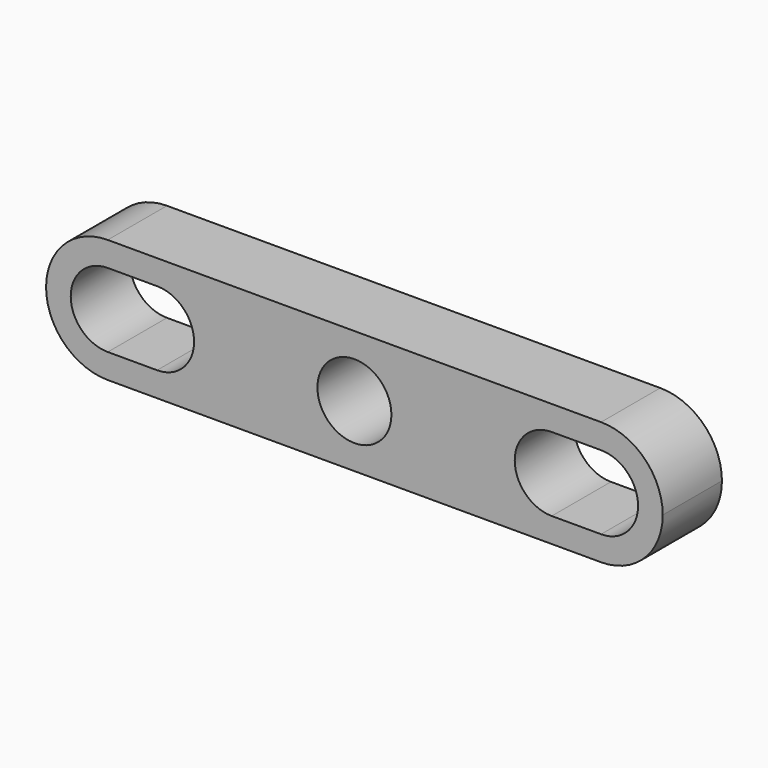
from build123d import *

# Parameters (mm, degrees)
F0_R     = 1.5
F1_DEPTH = 3


with BuildPart() as f1:
    # F0 (on Front) → F1 (new body)
    with BuildSketch(Plane.XZ):
        with BuildLine():
            ThreePointArc((12.5, 0), (11.767767, 1.767767), (10, 2.5))
            Line((10, 2.5), (-10, 2.5))
            ThreePointArc((-10, 2.5), (-11.767767, 1.767767), (-12.5, 0))
            ThreePointArc((-12.5, 0), (-11.767767, -1.767767), (-10, -2.5))
            Line((-10, -2.5), (10, -2.5))
            ThreePointArc((10, -2.5), (11.767767, -1.767767), (12.5, 0))
        make_face()
        with BuildLine():
            ThreePointArc((-8, 1.5), (-6.5, 0), (-8, -1.5))
            Line((-8, -1.5), (-10, -1.5))
            ThreePointArc((-10, -1.5), (-11.5, 0), (-10, 1.5))
            Line((-10, 1.5), (-8, 1.5))
        make_face(mode=Mode.SUBTRACT)
        Circle(F0_R, mode=Mode.SUBTRACT)
        with BuildLine():
            ThreePointArc((10, 1.5), (11.5, 0), (10, -1.5))
            Line((10, -1.5), (8, -1.5))
            ThreePointArc((8, -1.5), (6.5, 0), (8, 1.5))
            Line((8, 1.5), (10, 1.5))
        make_face(mode=Mode.SUBTRACT)
    extrude(amount=F1_DEPTH)


solid = f1.part
